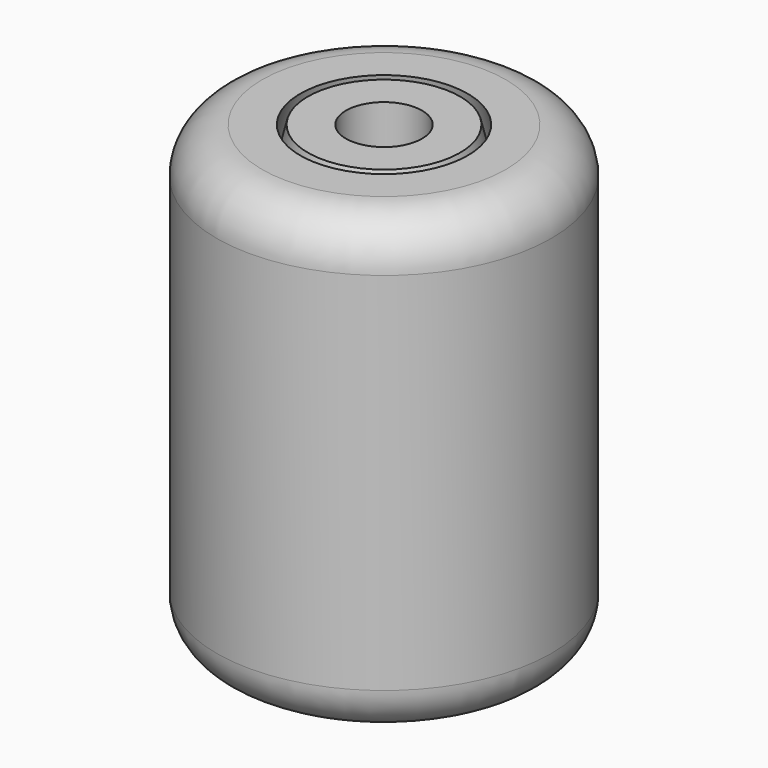
from build123d import *

# Parameters (mm, degrees)
SKETCH_R     = 11
PAD_DEPTH    = 0.01
SKETCH001_R  = 11
SKETCH002_R  = 11
SKETCH005_R  = 2.5
POCKET_DEPTH = 50
FILLET_R     = 3


with BuildPart() as part:
    # Sketch (on XY_Plane of Origin) → Pad (new body)
    with BuildSketch(Plane.XY):
        Circle(SKETCH_R)
    extrude(amount=PAD_DEPTH)

    # Sketch001 (on XY_Plane of Origin) → AdditiveLoft section 0
    with BuildSketch(Plane.XY):
        Circle(SKETCH001_R)
    # Sketch002 (on Sketch) → AdditiveLoft section 1
    with BuildSketch(Plane.XY.offset(30)):
        Circle(SKETCH002_R)
    loft()

    # Sketch003 (on YZ_Plane of Origin) → Groove (revolve, cut)
    with BuildSketch(Plane.YZ):
        with BuildLine():
            Line((0, 0), (0, 30))
            Line((0, 30), (5.5, 30))
            add(Edge.make_bspline(
                [(5.5, 30), (9, 15), (5.5, 0)],
                knots=[0, 0, 0, 1, 1, 1], degree=2))
            Line((5.5, 0), (0, 0))
        make_face()
    revolve(axis=Axis((0, 0, 0), (0, 0, 1)), mode=Mode.SUBTRACT)

    # Sketch004 (on YZ_Plane of Origin) → Revolution (revolve)
    with BuildSketch(Plane.YZ):
        with BuildLine():
            Line((0, 0), (0, 30))
            Line((0, 30), (5, 30))
            add(Edge.make_bspline(
                [(5, 30), (9, 15), (5, 0)],
                knots=[0, 0, 0, 1, 1, 1], degree=2))
            Line((5, 0), (0, 0))
        make_face()
    revolve(axis=Axis((0, 0, 0), (0, 0, 1)))

    # Sketch005 (on XY_Plane of Origin) → Pocket (cut)
    with BuildSketch(Plane.XY):
        Circle(SKETCH005_R)
    extrude(amount=POCKET_DEPTH, mode=Mode.SUBTRACT)

    # Fillet
    fillet_edges = [part.edges().sort_by_distance(p)[0] for p in [
        (-11, 0, 0),
        (-11, 0, 30),
    ]]
    fillet(fillet_edges, radius=FILLET_R)


solid = part.part
